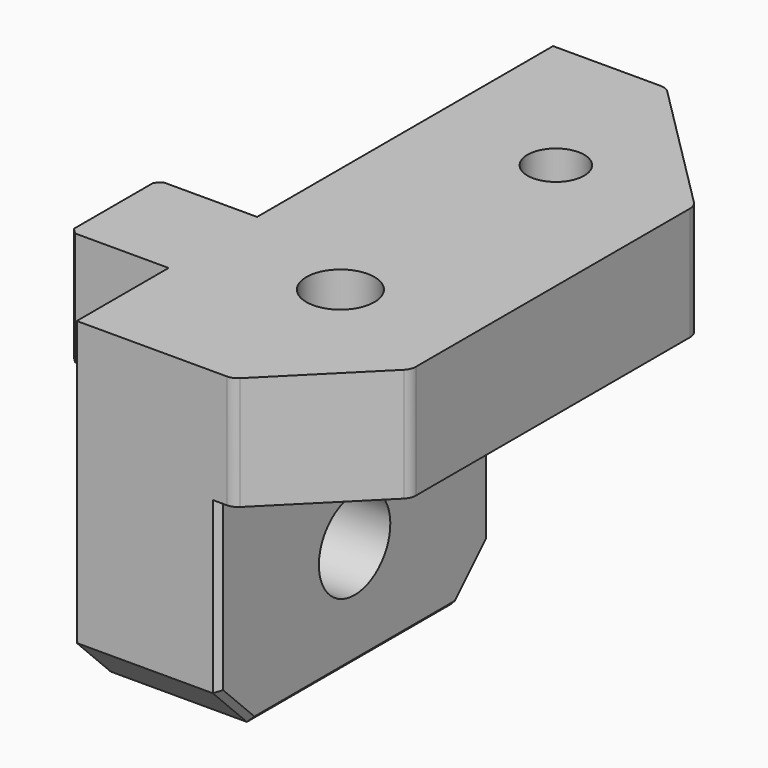
from build123d import *

# Parameters (mm, degrees)
CYLINDER004_R     = 2.4
CYLINDER004_DEPTH = 35
CYLINDER011_R     = 2
CYLINDER011_DEPTH = 40
CYLINDER008_R     = 3.15
CYLINDER008_DEPTH = 16
BOX006_W          = 10
BOX006_H          = 24
BOX006_DEPTH      = 15
CHAMFER004_SIZE   = 3
CHAMFER017_SIZE   = 0.4
BOX004_W          = 7
BOX004_H          = 7.8
BOX004_DEPTH      = 8
CHAMFER010_SIZE   = 0.4
BOX003_W          = 18
BOX003_H          = 42
BOX003_DEPTH      = 8
CHAMFER_SIZE      = 7
CHAMFER015_SIZE   = 10
FILLET004_R       = 1
BOX_W             = 1
BOX_H             = 7.8
BOX_DEPTH         = 15


with BuildPart() as cylinder004:
    # Cylinder004 → Cylinder004 (new body)
    with BuildSketch(Plane(origin=(9, 15, 0), x_dir=(1, 0, 0), z_dir=(0, 0, 1))):
        Circle(CYLINDER004_R)
    extrude(amount=CYLINDER004_DEPTH)


with BuildPart() as cylinder011:
    # Cylinder011 → Cylinder011 (new body)
    with BuildSketch(Plane(origin=(9, 34, 2), x_dir=(1, 0, 0), z_dir=(0, 0, 1))):
        Circle(CYLINDER011_R)
    extrude(amount=CYLINDER011_DEPTH)


with BuildPart() as cylinder008:
    # Cylinder008 → Cylinder008 (new body)
    with BuildSketch(Plane(origin=(-2, 15, -7.5), x_dir=(0, 0, -1), z_dir=(1, 0, 0))):
        Circle(CYLINDER008_R)
    extrude(amount=CYLINDER008_DEPTH)


with BuildPart() as chamfer017:
    # Box006 → Box006 (new body)
    with BuildSketch(Plane(origin=(0, 3, -15), x_dir=(1, 0, 0), z_dir=(0, 0, 1))):
        with Locations((5, 12)):
            Rectangle(BOX006_W, BOX006_H)
    extrude(amount=BOX006_DEPTH)

    # Chamfer004
    chamfer004_edges = [chamfer017.edges().sort_by_distance(p)[0] for p in [
        (5, 3, -15),
        (5, 27, -15),
    ]]
    chamfer(chamfer004_edges, length=CHAMFER004_SIZE)

    # Chamfer017
    chamfer017_edges = [chamfer017.edges().sort_by_distance(p)[0] for p in [
        (10, 3, -6),
        (10, 4.5, -13.5),
        (10, 15, -15),
        (10, 27, -6),
        (10, 25.5, -13.5),
    ]]
    chamfer(chamfer017_edges, length=CHAMFER017_SIZE)


with BuildPart() as chamfer010:
    # Box004 → Box004 (new body)
    with BuildSketch(Plane(origin=(-7, 11.1, 0), x_dir=(1, 0, 0), z_dir=(0, 0, 1))):
        with Locations((3.5, 3.9)):
            Rectangle(BOX004_W, BOX004_H)
    extrude(amount=BOX004_DEPTH)

    # Chamfer010
    chamfer010_edges = [chamfer010.edges().sort_by_distance(p)[0] for p in [
        (-7, 11.1, 4),
        (-7, 18.9, 4),
    ]]
    chamfer(chamfer010_edges, length=CHAMFER010_SIZE)


with BuildPart() as fillet004:
    # Box003 → Box003 (new body)
    with BuildSketch(Plane(origin=(0, 3, 0), x_dir=(1, 0, 0), z_dir=(0, 0, 1))):
        with Locations((9, 21)):
            Rectangle(BOX003_W, BOX003_H)
    extrude(amount=BOX003_DEPTH)

    # Chamfer
    chamfer_edges = [fillet004.edges().sort_by_distance(p)[0] for p in [
        (18, 3, 4),
    ]]
    chamfer(chamfer_edges, length=CHAMFER_SIZE)

    # Chamfer015
    chamfer015_edges = [fillet004.edges().sort_by_distance(p)[0] for p in [
        (18, 45, 4),
    ]]
    chamfer(chamfer015_edges, length=CHAMFER015_SIZE)

    # Fillet004
    fillet004_edges = [fillet004.edges().sort_by_distance(p)[0] for p in [
        (18, 35, 4),
        (18, 10, 4),
        (8, 45, 4),
        (11, 3, 4),
    ]]
    fillet(fillet004_edges, radius=FILLET004_R)


with BuildPart() as cut002002002007:
    # Box → Box (new body)
    with BuildSketch(Plane(origin=(-1, 11.1, -15), x_dir=(1, 0, 0), z_dir=(0, 0, 1))):
        with Locations((0.5, 3.9)):
            Rectangle(BOX_W, BOX_H)
    extrude(amount=BOX_DEPTH)

    # Fusion006003: union Chamfer017, Chamfer010, Fillet004
    add(chamfer017.part)
    add(chamfer010.part)
    add(fillet004.part)

    # Cut002002002003: cut Cylinder008
    add(cylinder008.part, mode=Mode.SUBTRACT)

    # Cut002002002006: cut Cylinder011
    add(cylinder011.part, mode=Mode.SUBTRACT)

    # Cut002002002007: cut Cylinder004
    add(cylinder004.part, mode=Mode.SUBTRACT)


solid = cut002002002007.part
